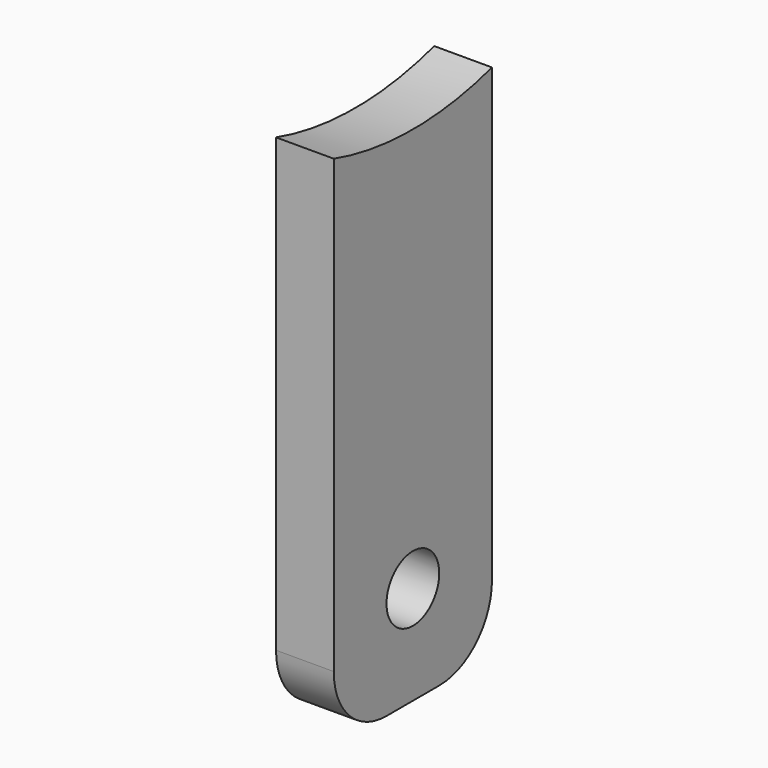
from build123d import *

# Parameters (mm, degrees)
F0_R     = 7.25
F1_DEPTH = 12.7


with BuildPart() as f1:
    # F0 (on Right) → F1 (new body)
    with BuildSketch(Plane.YZ):
        with BuildLine():
            ThreePointArc((-21.75, -7.25), (-17.503048, -17.503048), (-7.25, -21.75))
            Line((-7.25, -21.75), (7.25, -21.75))
            ThreePointArc((7.25, -21.75), (17.503048, -17.503048), (21.75, -7.25))
            Line((21.75, -7.25), (21.75, 92.070023))
            ThreePointArc((21.75, 92.070023), (0, 88.9), (-21.75, 92.070023))
            Line((-21.75, 92.070023), (-21.75, -7.25))
        make_face()
        Circle(F0_R, mode=Mode.SUBTRACT)
    extrude(amount=F1_DEPTH)


solid = f1.part
